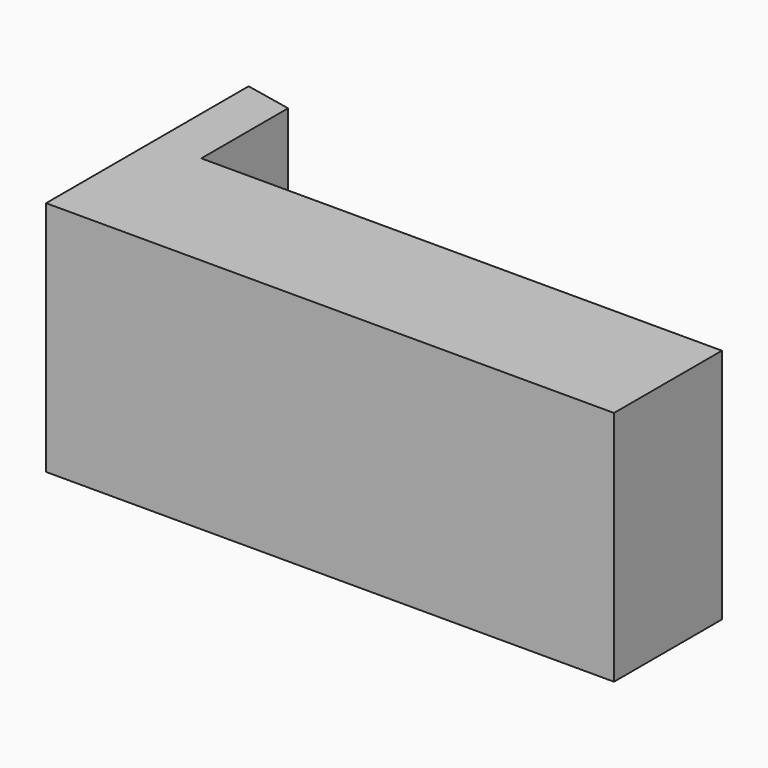
from build123d import *

# Parameters (mm, degrees)
F1_DEPTH = 15
F3_DEPTH = 10
F4_DEPTH = 3
F5_DEPTH = 5


with BuildPart() as f1:
    # F0 (on Top) → F1 (new body)
    with BuildSketch(Plane.XY):
        Polygon((30, 6.25), (30, 0), (60, 0), (60, 12.5), align=None)
        Polygon((60, 12.5), (60, 0), (90, 0), (90, 18.75), align=None)
    extrude(amount=F1_DEPTH)

    # F2 (on face) → F3 (join)
    with BuildSketch(Plane.XY.offset(15)):
        Polygon((30, 0), (90, 0), (90, 18.75), (85.0000008941, 17.7083335196), (85.0000008941, 6.25), (30, 6.25), align=None)
    extrude(amount=F3_DEPTH)

    # F4 (add): a face of the model
    f4_faces = [f1.faces().sort_by_distance(p)[0] for p in [
        (60, 0, 12.5),
    ]]
    extrude(f4_faces, amount=F4_DEPTH)

    # F5 (add): a face of the model
    f5_faces = [f1.faces().sort_by_distance(p)[0] for p in [
        (60, -3, 12.5),
    ]]
    extrude(f5_faces, amount=F5_DEPTH)


with BuildPart() as f6_1:
    # F6: instance of F1
    add(f1.part.mirror(Plane.YZ))


solid = f6_1.part
